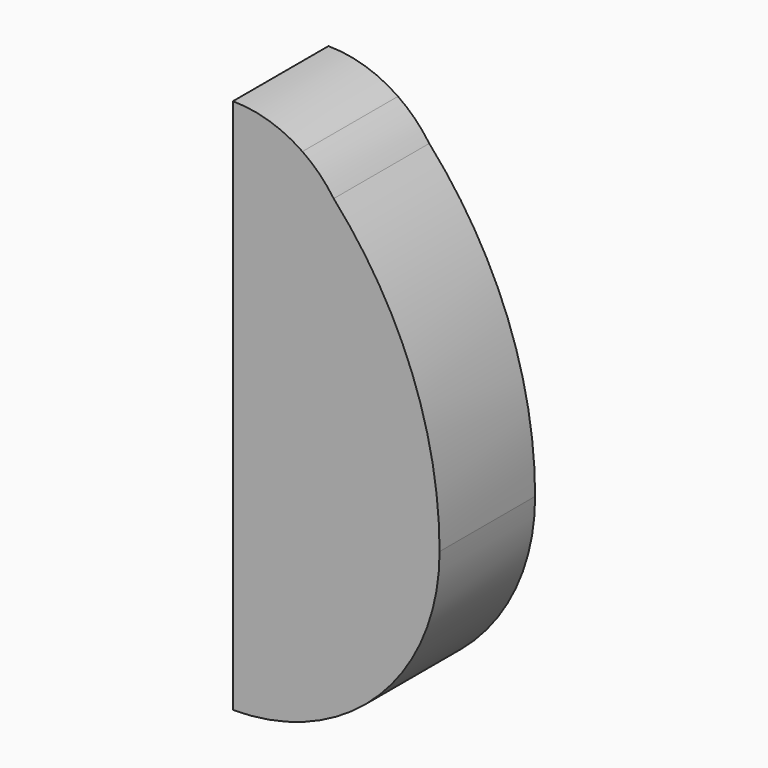
from build123d import *

# Parameters (mm, degrees)
F1_DEPTH = 13


with BuildPart() as f1:
    # F0 (on Front) → F1 (new body)
    with BuildSketch(Plane.XZ):
        with BuildLine():
            Line((0, 35.834754), (0, -22.5))
            ThreePointArc((0, -22.5), (15.909903, -15.909903), (22.5, 0))
            ThreePointArc((22.5, 0), (19.52034, 16.102515), (10.975956, 30.072585))
            ThreePointArc((10.975956, 30.072585), (9.319805, 31.819805), (7.572585, 33.475956))
            ThreePointArc((7.572585, 33.475956), (3.965727, 35.231404), (0, 35.834754))
        make_face()
        with BuildLine():
            ThreePointArc((7.572585, 33.475956), (9.319805, 31.819805), (10.975956, 30.072585))
            ThreePointArc((10.975956, 30.072585), (9.429095, 31.929095), (7.572585, 33.475956))
        make_face()
    extrude(amount=F1_DEPTH)


solid = f1.part
